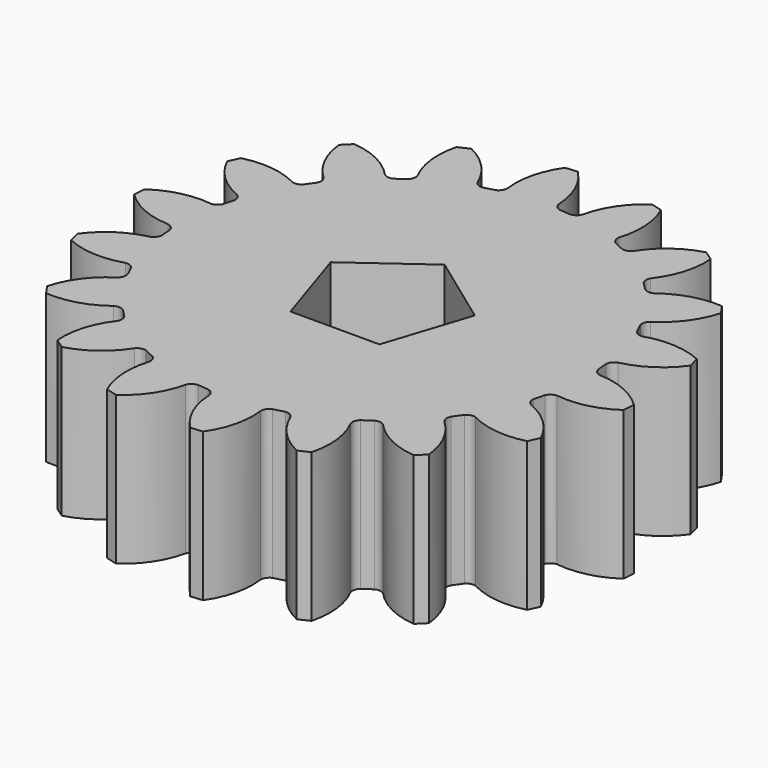
from build123d import *

# Parameters (mm, degrees)
F1_DEPTH = 10


with BuildPart() as f1:
    # F0 (on Top) → F1 (new body)
    with BuildSketch(Plane.XY):
        with BuildLine():
            ThreePointArc((0.834247, 13.754724), (0.539473, 13.922611), (0.384061, 14.224148))
            ThreePointArc((0.384061, 14.224148), (-0.053041, 16.126356), (-1.146638, 17.742988))
            Line((-1.146638, 17.742988), (-1.950006, 17.672744))
            ThreePointArc((-1.950006, 17.672744), (-2.74627, 15.891587), (-2.846993, 13.943148))
            ThreePointArc((-2.846993, 13.943148), (-2.94723, 13.618388), (-3.20868, 13.401223))
            Line((-3.20868, 13.401223), (-3.920457, 13.210542))
            ThreePointArc((-3.920457, 13.210542), (-4.254874, 13.267486), (-4.504046, 13.497684))
            ThreePointArc((-4.504046, 13.497684), (-5.565381, 15.135677), (-7.145946, 16.280782))
            Line((-7.145946, 16.280782), (-7.876841, 15.940006))
            ThreePointArc((-7.876841, 15.940006), (-8.015892, 13.993927), (-7.444136, 12.128545))
            ThreePointArc((-7.444136, 12.128545), (-7.427254, 11.789086), (-7.598661, 11.495597))
            Line((-7.598661, 11.495597), (-8.202296, 11.072974))
            ThreePointArc((-8.202296, 11.072974), (-8.536021, 11.012106), (-8.848898, 11.1432))
            ThreePointArc((-8.848898, 11.1432), (-10.406453, 12.319412), (-12.283348, 12.854873))
            Line((-12.283348, 12.854873), (-12.853612, 12.284668))
            ThreePointArc((-12.853612, 12.284668), (-12.31868, 10.408393), (-11.143406, 8.85106))
            ThreePointArc((-11.143406, 8.85106), (-11.01144, 8.537847), (-11.072132, 8.203432))
            Line((-11.072132, 8.203432), (-11.494817, 7.599841))
            ThreePointArc((-11.494817, 7.599841), (-11.787598, 7.428503), (-12.126443, 7.444681))
            ThreePointArc((-12.126443, 7.444681), (-13.992354, 8.017243), (-15.939197, 7.878477))
            Line((-15.939197, 7.878477), (-16.280048, 7.147617))
            ThreePointArc((-16.280048, 7.147617), (-15.135653, 5.567454), (-13.498617, 4.506006))
            ThreePointArc((-13.498617, 4.506006), (-13.267485, 4.256818), (-13.21014, 3.921813))
            Line((-13.21014, 3.921813), (-13.400893, 3.210056))
            ThreePointArc((-13.400893, 3.210056), (-13.617417, 2.948914), (-13.94136, 2.848224))
            ThreePointArc((-13.94136, 2.848224), (-15.890571, 2.748077), (-17.672544, 1.95182))
            Line((-17.672544, 1.95182), (-17.74287, 1.148459))
            ThreePointArc((-17.74287, 1.148459), (-16.127043, 0.054997), (-14.225696, -0.382538))
            ThreePointArc((-14.225696, -0.382538), (-13.923275, -0.537647), (-13.75481, -0.832836))
            Line((-13.75481, -0.832836), (-13.690624, -1.566909))
            ThreePointArc((-13.690624, -1.566909), (-13.804774, -1.886358), (-14.074743, -2.091771))
            ThreePointArc((-14.074743, -2.091771), (-15.87215, -2.852547), (-17.274321, -4.210255))
            Line((-17.274321, -4.210255), (-17.06564, -4.989221))
            ThreePointArc((-17.06564, -4.989221), (-15.173273, -5.464093), (-13.236946, -5.224943))
            ThreePointArc((-13.236946, -5.224943), (-12.899713, -5.267264), (-12.640446, -5.487031))
            Line((-12.640446, -5.487031), (-12.329064, -6.154883))
            ThreePointArc((-12.329064, -6.154883), (-12.327072, -6.494108), (-12.510505, -6.779467))
            ThreePointArc((-12.510505, -6.779467), (-13.939314, -8.109113), (-14.79256, -9.864511))
            Line((-14.79256, -9.864511), (-14.330042, -10.525127))
            ThreePointArc((-14.330042, -10.525127), (-12.389383, -10.324133), (-10.651624, -9.437142))
            ThreePointArc((-10.651624, -9.437142), (-10.320255, -9.36157), (-10.001459, -9.47941))
            Line((-10.001459, -9.47941), (-9.480437, -10.000486))
            ThreePointArc((-9.480437, -10.000486), (-9.362542, -10.318572), (-9.437314, -10.64946))
            ThreePointArc((-9.437314, -10.64946), (-10.32519, -12.387599), (-10.526598, -14.328962))
            Line((-10.526598, -14.328962), (-9.86603, -14.791547))
            ThreePointArc((-9.86603, -14.791547), (-8.11115, -13.93893), (-6.78156, -12.511083))
            ThreePointArc((-6.78156, -12.511083), (-6.496022, -12.326734), (-6.156148, -12.328432))
            Line((-6.156148, -12.328432), (-5.488329, -12.639883))
            ThreePointArc((-5.488329, -12.639883), (-5.268753, -12.898464), (-5.225845, -13.234971))
            ThreePointArc((-5.225845, -13.234971), (-5.465697, -15.171959), (-4.990972, -17.065128))
            Line((-4.990972, -17.065128), (-4.212028, -17.273888))
            ThreePointArc((-4.212028, -17.273888), (-2.854593, -15.872486), (-2.093539, -14.076003))
            ThreePointArc((-2.093539, -14.076003), (-1.888272, -13.805111), (-1.568315, -13.690463))
            Line((-1.568315, -13.690463), (-0.834247, -13.754724))
            ThreePointArc((-0.834247, -13.754724), (-0.539473, -13.922611), (-0.384061, -14.224148))
            ThreePointArc((-0.384061, -14.224148), (0.053041, -16.126356), (1.146638, -17.742988))
            Line((1.146638, -17.742988), (1.950006, -17.672744))
            ThreePointArc((1.950006, -17.672744), (2.74627, -15.891587), (2.846993, -13.943148))
            ThreePointArc((2.846993, -13.943148), (2.94723, -13.618388), (3.20868, -13.401223))
            Line((3.20868, -13.401223), (3.920457, -13.210542))
            ThreePointArc((3.920457, -13.210542), (4.254874, -13.267486), (4.504046, -13.497684))
            ThreePointArc((4.504046, -13.497684), (5.565381, -15.135677), (7.145946, -16.280782))
            Line((7.145946, -16.280782), (7.876841, -15.940006))
            ThreePointArc((7.876841, -15.940006), (8.015892, -13.993927), (7.444136, -12.128545))
            ThreePointArc((7.444136, -12.128545), (7.427254, -11.789086), (7.598661, -11.495597))
            Line((7.598661, -11.495597), (8.202296, -11.072974))
            ThreePointArc((8.202296, -11.072974), (8.536021, -11.012106), (8.848898, -11.1432))
            ThreePointArc((8.848898, -11.1432), (10.406453, -12.319412), (12.283348, -12.854873))
            Line((12.283348, -12.854873), (12.853612, -12.284668))
            ThreePointArc((12.853612, -12.284668), (12.31868, -10.408393), (11.143406, -8.85106))
            ThreePointArc((11.143406, -8.85106), (11.01144, -8.537847), (11.072132, -8.203432))
            Line((11.072132, -8.203432), (11.494817, -7.599841))
            ThreePointArc((11.494817, -7.599841), (11.787598, -7.428503), (12.126443, -7.444681))
            ThreePointArc((12.126443, -7.444681), (13.992354, -8.017243), (15.939197, -7.878477))
            Line((15.939197, -7.878477), (16.280048, -7.147617))
            ThreePointArc((16.280048, -7.147617), (15.135653, -5.567454), (13.498617, -4.506006))
            ThreePointArc((13.498617, -4.506006), (13.267485, -4.256818), (13.21014, -3.921813))
            Line((13.21014, -3.921813), (13.400893, -3.210056))
            ThreePointArc((13.400893, -3.210056), (13.617417, -2.948914), (13.94136, -2.848224))
            ThreePointArc((13.94136, -2.848224), (15.890571, -2.748077), (17.672544, -1.95182))
            Line((17.672544, -1.95182), (17.74287, -1.148459))
            ThreePointArc((17.74287, -1.148459), (16.127043, -0.054997), (14.225696, 0.382538))
            ThreePointArc((14.225696, 0.382538), (13.923275, 0.537647), (13.75481, 0.832836))
            Line((13.75481, 0.832836), (13.690624, 1.566909))
            ThreePointArc((13.690624, 1.566909), (13.804774, 1.886358), (14.074743, 2.091771))
            ThreePointArc((14.074743, 2.091771), (15.87215, 2.852547), (17.274321, 4.210255))
            Line((17.274321, 4.210255), (17.06564, 4.989221))
            ThreePointArc((17.06564, 4.989221), (15.173273, 5.464093), (13.236946, 5.224943))
            ThreePointArc((13.236946, 5.224943), (12.899713, 5.267264), (12.640446, 5.487031))
            Line((12.640446, 5.487031), (12.329064, 6.154883))
            ThreePointArc((12.329064, 6.154883), (12.327072, 6.494108), (12.510505, 6.779467))
            ThreePointArc((12.510505, 6.779467), (13.939314, 8.109113), (14.79256, 9.864511))
            Line((14.79256, 9.864511), (14.330042, 10.525127))
            ThreePointArc((14.330042, 10.525127), (12.389383, 10.324133), (10.651624, 9.437142))
            ThreePointArc((10.651624, 9.437142), (10.320255, 9.36157), (10.001459, 9.47941))
            Line((10.001459, 9.47941), (9.480437, 10.000486))
            ThreePointArc((9.480437, 10.000486), (9.362542, 10.318572), (9.437314, 10.64946))
            ThreePointArc((9.437314, 10.64946), (10.32519, 12.387599), (10.526598, 14.328962))
            Line((10.526598, 14.328962), (9.86603, 14.791547))
            ThreePointArc((9.86603, 14.791547), (8.11115, 13.93893), (6.78156, 12.511083))
            ThreePointArc((6.78156, 12.511083), (6.496022, 12.326734), (6.156148, 12.328432))
            Line((6.156148, 12.328432), (5.488329, 12.639883))
            ThreePointArc((5.488329, 12.639883), (5.268753, 12.898464), (5.225845, 13.234971))
            ThreePointArc((5.225845, 13.234971), (5.465697, 15.171959), (4.990972, 17.065128))
            Line((4.990972, 17.065128), (4.212028, 17.273888))
            ThreePointArc((4.212028, 17.273888), (2.854593, 15.872486), (2.093539, 14.076003))
            ThreePointArc((2.093539, 14.076003), (1.888272, 13.805111), (1.568315, 13.690463))
            Line((1.568315, 13.690463), (0.834247, 13.754724))
        make_face()
        Polygon((0, 5.1), (4.850388, 1.575987), (2.997705, -4.125987), (-2.997705, -4.125987), (-4.850388, 1.575987), align=None, mode=Mode.SUBTRACT)
    extrude(amount=F1_DEPTH)


solid = f1.part
